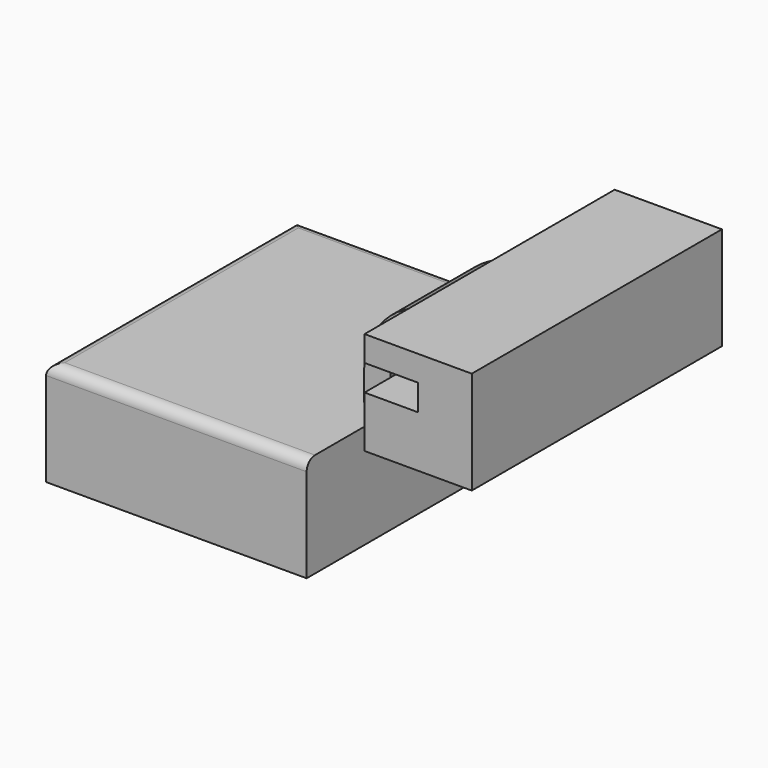
from build123d import *

# Parameters (mm, degrees)
F1_DEPTH = 25.4
F2_DEPTH = 76.2
F3_R     = 5.08


with BuildPart() as f1:
    # F0 (on Front) → F1 (new body, symmetric)
    with BuildSketch(Plane.XZ):
        with BuildLine():
            Line((50.8, 25.4), (63.5, 25.4))
            Line((63.5, 25.4), (63.5, 38.1))
            ThreePointArc((63.5, 38.1), (70.939488, 56.060512), (88.9, 63.5))
            Line((88.9, 63.5), (91.722063, 63.5))
            Line((91.722063, 63.5), (91.722063, 76.2))
            Line((91.722063, 76.2), (88.9, 76.2))
            ThreePointArc((88.9, 76.2), (61.959232, 65.040768), (50.8, 38.1))
            Line((50.8, 38.1), (50.8, 25.4))
        make_face()
    extrude(amount=F1_DEPTH, both=True)

    # F0 (on Front) → F2 (join, symmetric)
    with BuildSketch(Plane.XZ):
        Polygon((63.5, -25.4), (63.5, 25.4), (50.8, 25.4), (-63.5, 25.4), (-63.5, -25.4), align=None)
        Polygon((117.853607, 63.5), (91.722063, 63.5), (91.722063, 38.416864), (143.98515, 38.416864), (143.98515, 88.583136), (91.722063, 88.583136), (91.722063, 76.2), (117.853607, 76.2), align=None)
    extrude(amount=F2_DEPTH, both=True)

    # F3
    f3_edges = [f1.edges().sort_by_distance(p)[0] for p in [
        (0, -76.2, 25.4),
        (-63.5, 0, 25.4),
        (0, 76.2, 25.4),
    ]]
    fillet(f3_edges, radius=F3_R)


solid = f1.part
